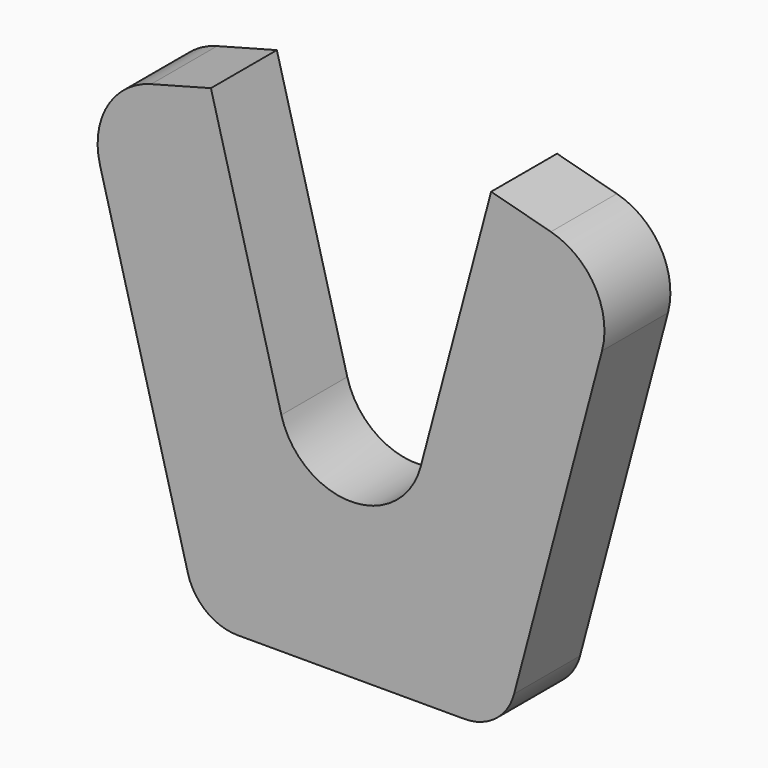
from build123d import *

# Parameters (mm, degrees)
F1_DEPTH = 25.4


with BuildPart() as f1:
    # F0 (on Front) → F1 (new body)
    with BuildSketch(Plane.XZ):
        with BuildLine():
            ThreePointArc((-50.266767, -58.054928), (-44.600918, -66.560398), (-34.925, -69.85))
            Line((-34.925, -69.85), (34.925, -69.85))
            ThreePointArc((34.925, -69.85), (44.600918, -66.560398), (50.266767, -58.054928))
            Line((50.266767, -58.054928), (77.358474, 43.8181))
            ThreePointArc((77.358474, 43.8181), (75.106497, 60.678651), (61.5919, 71.008474))
            Line((61.5919, 71.008474), (43.183091, 75.904039))
            Line((43.183091, 75.904039), (21.478474, -5.7119))
            ThreePointArc((21.478474, -5.7119), (0, -22.225), (-21.478474, -5.7119))
            Line((-21.478474, -5.7119), (-43.183091, 75.904039))
            Line((-43.183091, 75.904039), (-61.5919, 71.008474))
            ThreePointArc((-61.5919, 71.008474), (-75.106497, 60.678651), (-77.358474, 43.8181))
            Line((-77.358474, 43.8181), (-50.266767, -58.054928))
        make_face()
    extrude(amount=F1_DEPTH)


solid = f1.part
